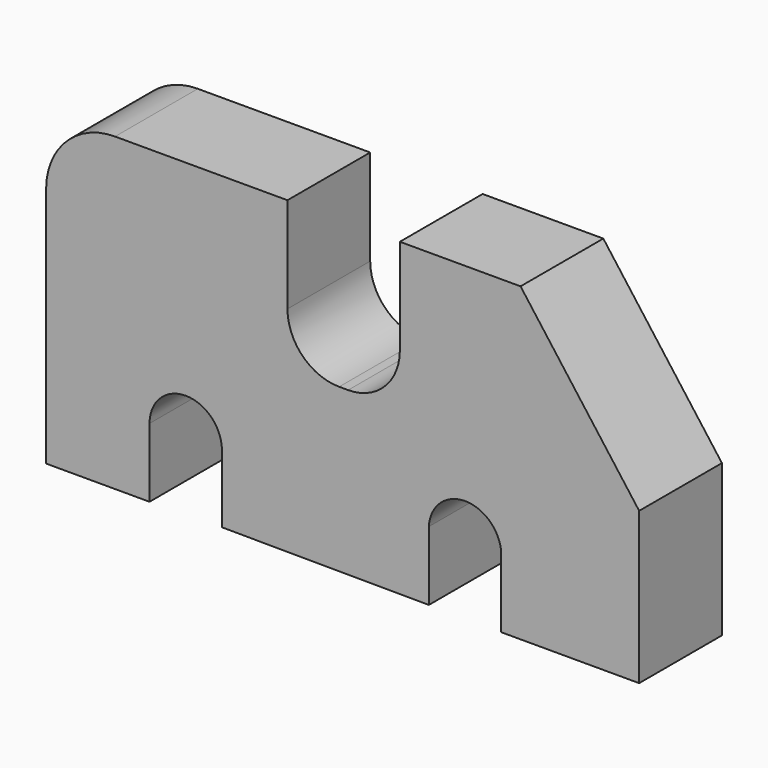
from build123d import *

# Parameters (mm, degrees)
F1_DEPTH = 30


with BuildPart() as f1:
    # F0 (on Front) → F1 (new body)
    with BuildSketch(Plane.XZ):
        with BuildLine():
            Line((-52.496594, -40.126376), (-52.496594, -20.126376))
            ThreePointArc((-52.496594, -20.126376), (-41.996594, -9.626376), (-31.496594, -20.126376))
            Line((-31.496594, -20.126376), (-31.496594, -39.8132))
            Line((-31.496594, -39.8132), (28.502589, -40.126376))
            Line((28.502589, -40.126376), (28.502589, -20.126376))
            ThreePointArc((28.502589, -20.126376), (38.746497, -10.168819), (49.502589, -19.570792))
            Line((49.502589, -19.570792), (49.502589, -40.258525))
            Line((49.502589, -40.258525), (89.502589, -40.258525))
            Line((89.502589, -40.258525), (89.502589, 3.741475))
            Line((89.502589, 3.741475), (55.103657, 49.873624))
            Line((55.103657, 49.873624), (20.103657, 49.873624))
            Line((20.103657, 49.873624), (20.103657, 22.121942))
            ThreePointArc((20.103657, 22.121942), (15.710259, 11.515341), (5.103657, 7.121942))
            Line((5.103657, 7.121942), (2.503406, 7.121942))
            ThreePointArc((2.503406, 7.121942), (-8.103196, 11.515341), (-12.496594, 22.121942))
            Line((-12.496594, 22.121942), (-12.496594, 49.873624))
            Line((-12.496594, 49.873624), (-62.496594, 49.873624))
            ThreePointArc((-62.496594, 49.873624), (-76.638729, 44.015759), (-82.496594, 29.873624))
            Line((-82.496594, 29.873624), (-82.496594, -40.126376))
            Line((-82.496594, -40.126376), (-52.496594, -40.126376))
        make_face()
    extrude(amount=F1_DEPTH)


solid = f1.part
